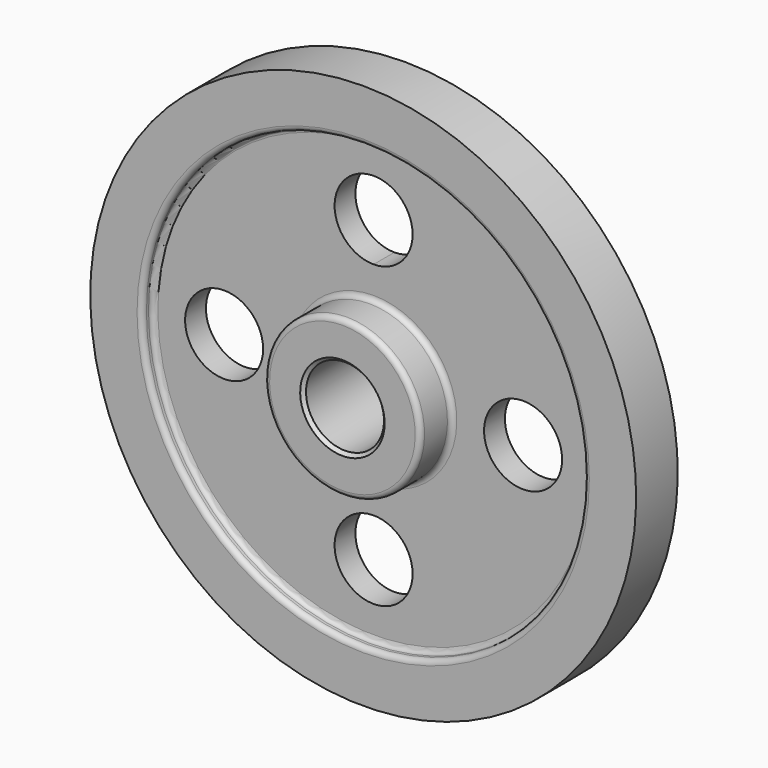
from build123d import *

# Parameters (mm, degrees)
F2_R     = 19.05
F3_DEPTH = 50.801
F4_R     = 2.54
F5_SIZE  = 1.5875


with BuildPart() as f1:
    # F0 (on Right) → F1 (revolve)
    with BuildSketch(Plane.YZ):
        Polygon((6.35, 75.1332), (6.35, 107.95), (12.7, 107.95), (12.7, 133.35), (0, 133.35), (-12.7, 133.35), (-12.7, 107.95), (-6.35, 107.95), (-6.35, 75.1332), (-6.35, 38.1), (-25.4, 38.1), (-25.4, 19.05), (0, 19.05), (25.4, 19.05), (25.4, 38.1), (6.35, 38.1), align=None)
    revolve(axis=Axis((0, 40.2336, 0), (0, 1, 0)))

    # F2 (on face) → F3 (cut, through all)
    with BuildSketch(Plane.XZ.offset(25.4)):
        with Locations((-73.025, 0)):
            Circle(F2_R)
        with BuildLine():
            ThreePointArc((19.05, 73.025), (-13.470384, 86.495384), (0, 53.975))
            ThreePointArc((0, 53.975), (13.470384, 59.554616), (19.05, 73.025))
        make_face()
        with Locations((73.025, 0)):
            Circle(F2_R)
        with Locations((0, -73.025)):
            Circle(F2_R)
    extrude(amount=-F3_DEPTH, mode=Mode.SUBTRACT)

    # F4
    f4_edges = [f1.edges().sort_by_distance(p)[0] for p in [
        (0, -6.35, -107.95),
        (0, -12.7, -107.95),
        (0, 6.35, -107.95),
        (0, 12.7, -107.95),
        (0, 6.35, -38.1),
        (0, -6.35, -38.1),
        (0, -25.4, -38.1),
    ]]
    fillet(f4_edges, radius=F4_R)

    # F5
    f5_edges = [f1.edges().sort_by_distance(p)[0] for p in [
        (0, -25.4, -19.05),
        (0, 25.4, -19.05),
    ]]
    chamfer(f5_edges, length=F5_SIZE)


solid = f1.part
